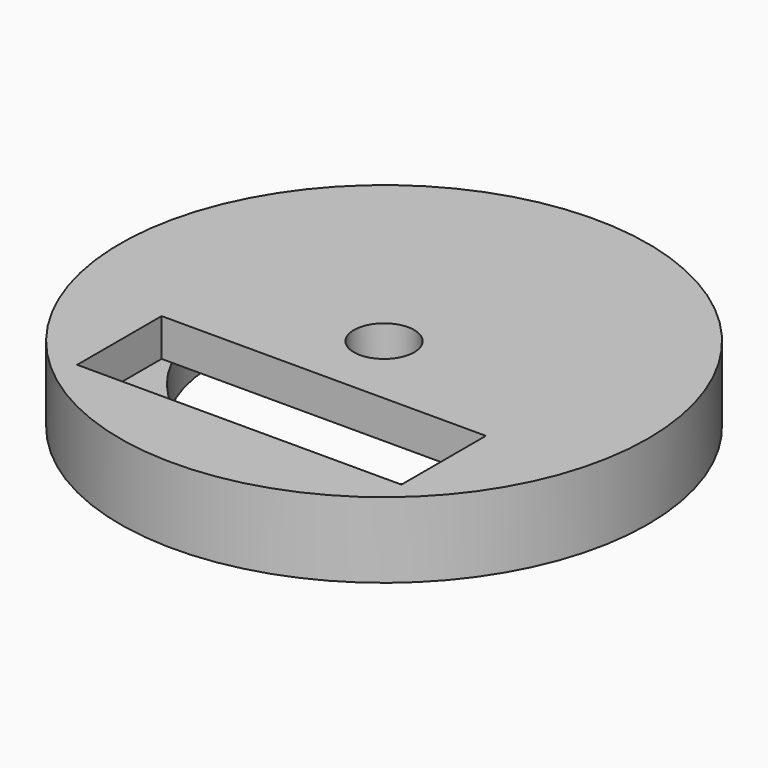
from build123d import *

# Parameters (mm, degrees)
F0_R     = 35
F1_DEPTH = 10
F2_R     = 22.5
F3_DEPTH = 5
F4_W     = 43
F4_H     = 14
F5_DEPTH = 5
F6_R     = 4
F7_DEPTH = 4.8


with BuildPart() as f1:
    # F0 (on Top) → F1 (new body)
    with BuildSketch(Plane.XY):
        Circle(F0_R)
    extrude(amount=F1_DEPTH)

    # F2 (on face) → F3 (cut)
    with BuildSketch(Plane(origin=(0, 0, 0), x_dir=(1, 0, 0), z_dir=(0, 0, -1))):
        Circle(F2_R)
    extrude(amount=-F3_DEPTH, mode=Mode.SUBTRACT)

    # F4 (on face) → F5 (cut)
    with BuildSketch(Plane.XY.offset(10)):
        with Locations((0, -17)):
            Rectangle(F4_W, F4_H)
    extrude(amount=-F5_DEPTH, mode=Mode.SUBTRACT)

    # F6 (on face) → F7 (cut)
    with BuildSketch(Plane.XY.offset(10)):
        Circle(F6_R)
    extrude(amount=-F7_DEPTH, mode=Mode.SUBTRACT)


solid = f1.part
